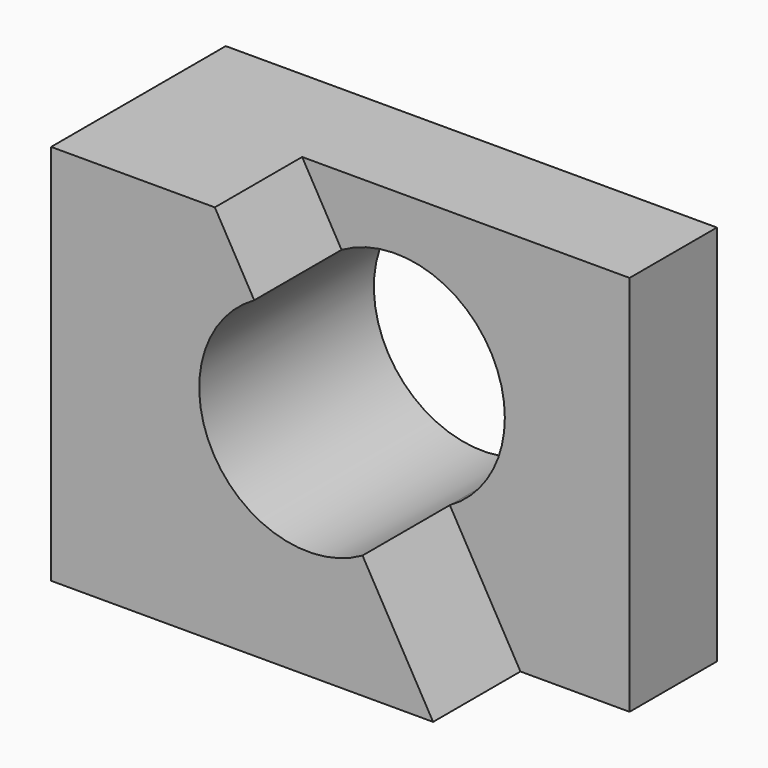
from build123d import *

# Parameters (mm, degrees)
F0_W     = 114.3
F0_H     = 88.9
F1_DEPTH = 25.4
F3_DEPTH = 25.4
F5_DEPTH = 50.8


with BuildPart() as f1:
    # F0 (on Front) → F1 (new body)
    with BuildSketch(Plane.XZ):
        with Locations((11.960601, 7.462785)):
            Rectangle(F0_W, F0_H)
        with Locations((11.960601, 7.462785)):
            Rectangle(F0_W, F0_H)
    extrude(amount=F1_DEPTH)

    # F2 (on face) → F3 (join)
    with BuildSketch(Plane.XZ.offset(25.4)):
        Polygon((-45.189399, 51.912785), (-45.189399, -36.987215), (43.710601, -36.987215), (-7.089399, 51.912785), align=None)
    extrude(amount=F3_DEPTH)

    # F4 (on face) → F5 (cut)
    with BuildSketch(Plane.XZ.offset(50.8)):
        with BuildLine():
            ThreePointArc((27.283958, -8.240591), (36.650746, 1.063844), (40.082029, 13.812785))
            ThreePointArc((40.082029, 13.812785), (27.43097, 35.781501), (2.0801, 35.866161))
            Line((2.0801, 35.866161), (27.283958, -8.240591))
        make_face()
        with BuildLine():
            Line((27.283958, -8.240591), (2.0801, 35.866161))
            ThreePointArc((2.0801, 35.866161), (-7.371347, 1.210856), (27.283958, -8.240591))
        make_face()
    extrude(amount=-F5_DEPTH, mode=Mode.SUBTRACT)


solid = f1.part
